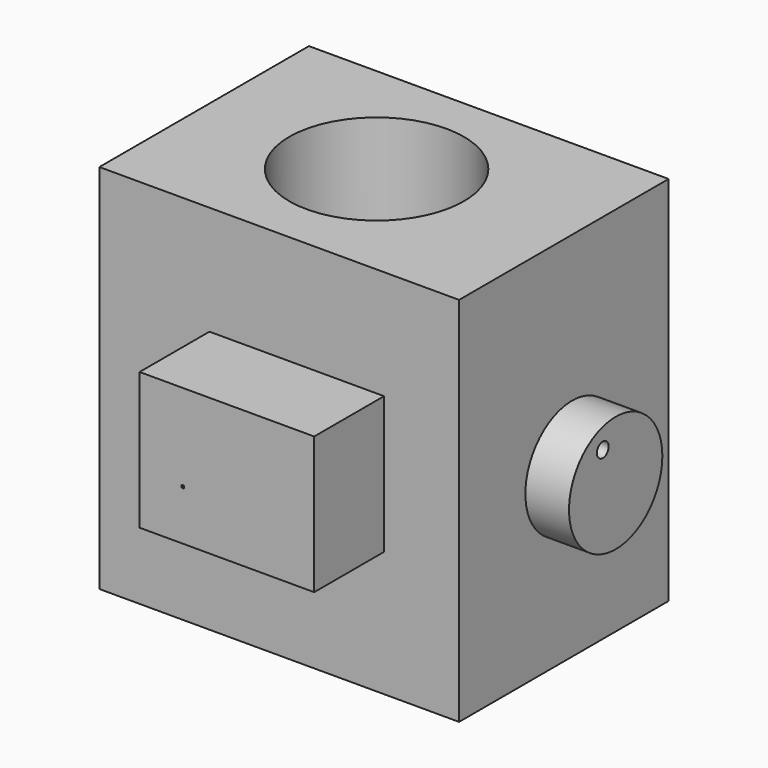
from build123d import *

# Parameters (mm, degrees)
F0_W     = 52.326445
F0_H     = 54.046918
F1_DEPTH = 38.1
F3_D     = 25.4
F4_W     = 25.4
F4_H     = 19.942893
F4_W_2   = 0.366597
F4_H_2   = 0.366597
F5_DEPTH = 12.7
F6_R     = 8.487976
F6_R_2   = 1.067547
F7_DEPTH = 6.35


with BuildPart() as f1:
    # F0 (on Front) → F1 (new body)
    with BuildSketch(Plane.XZ):
        with Locations((-26.163222, 27.023459)):
            Rectangle(F0_W, F0_H)
    extrude(amount=F1_DEPTH)

    # F3 (through all)
    with Locations(Plane.XY.offset(54.046918)):
        with Locations((-27.433222, -18.808095)):
            Hole(F3_D / 2)

    # F4 (on face) → F5 (join)
    with BuildSketch(Plane.XZ.offset(38.1)):
        with Locations((-23.617967, 28.19657)):
            Rectangle(F4_W, F4_H)
        with Locations((-30.049153, 25.520409)):
            Rectangle(F4_W_2, F4_H_2, mode=Mode.SUBTRACT)
    extrude(amount=F5_DEPTH)

    # F6 (on face) → F7 (join)
    with BuildSketch(Plane.YZ):
        with Locations((-17.562686, 24.310639)):
            Circle(F6_R)
        with Locations((-19.908907, 29.516321)):
            Circle(F6_R_2, mode=Mode.SUBTRACT)
    extrude(amount=F7_DEPTH)


solid = f1.part
